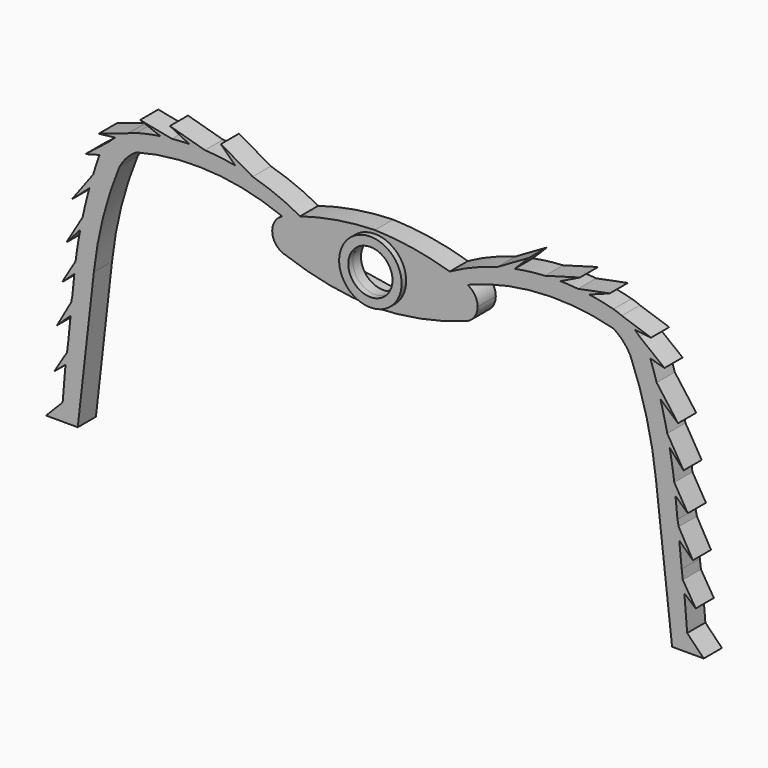
from build123d import *

# Parameters (mm, degrees)
PAD071_DEPTH       = 4
PAD069_DEPTH       = 4
POCKET003051_DEPTH = 2.2
PAD070_DEPTH       = 4
SKETCH116_R        = 3.9
POCKET003052_DEPTH = 10
SKETCH118_R        = 5.5
SKETCH118_R_2      = 3.891802
PAD072_DEPTH       = 1
SKETCH119_W        = 122.5
SKETCH119_H        = 2
POCKET003053_DEPTH = 5


with BuildPart() as central_leg_insect_add001:
    # Sketch117 → Pad071 (new body)
    with BuildSketch(Plane.XZ.offset(-43.7)):
        Polygon((-58.503296, -18.004301), (-53.997036, -18.004301), (-48.744877, 15.965196), (-44.5658, 27.943165), (-41.53833, 30.02603), (-31.626242, 31.40176), (-21.017805, 29.65671), (-18.990362, 30.401161), (-27.13097, 35.111233), (-22.936073, 30.916338), (-29.003351, 32.984856), (-36.116627, 34.99157), (-32.000511, 32.969288), (-34.972557, 32.969288), (-41.352551, 34.221657), (-37, 32.591213), (-43, 31.631081), (-48.636986, 29.73181), (-44, 30.22826), (-46, 29.721722), (-51, 25.793291), (-47.464714, 26.759798), (-49.314915, 23.492535), (-53.390827, 18), (-50, 21), (-51, 16.646269), (-54.355499, 11), (-51.685394, 14), (-52.498241, 9), (-55.106018, 4.606695), (-52.495518, 7), (-53.502594, 2), (-56, -2.398534), (-53.492668, 0), (-54.22747, -6), (-56.500393, -9.69598), (-54.497387, -8), (-55, -14), (-58.503296, -17.601286), align=None)
    extrude(amount=-PAD071_DEPTH)


with BuildPart() as quarter_central_leg_servo_support001:
    # Sketch113 → Pad069 (new body)
    with BuildSketch(Plane(origin=(0, 47.7, 24.6), x_dir=(-1, 0, 0), z_dir=(0, 1, 0))):
        with BuildLine():
            ThreePointArc((15.732627, 3), (7.987175, 5.135172), (0, 6.004658))
            Line((0, 6.004658), (0, 4.275313))
            Line((0, 4.275313), (0, 0))
            Line((16.774147, 0), (0, 0))
            Line((18.088162, 0), (16.774147, 0))
            ThreePointArc((18.088162, 0), (17.428911, 1.907128), (15.732627, 3))
        make_face()
    extrude(amount=-PAD069_DEPTH)

    # Sketch114 → Pocket003051 (cut)
    with BuildSketch(Plane(origin=(0, 47.7, 24.6), x_dir=(-1, 0, 0), z_dir=(0, 1, 0))):
        with BuildLine():
            Line((0, 4.49111), (15.744728, 2.000001))
            ThreePointArc((17.134156, 0), (16.75271, 1.217632), (15.744728, 2.000001))
            Line((17.134156, 0), (0, 0))
            Line((0, 0), (0, 4.49111))
        make_face()
    extrude(amount=-POCKET003051_DEPTH, mode=Mode.SUBTRACT)


with BuildPart() as half_leg_insect001:
    # Part__Mirroring009: instance of quarter_central_leg_servo_support001
    add(quarter_central_leg_servo_support001.part.mirror(Plane(origin=(0, 0, 24.6), x_dir=(0, 1, 0), z_dir=(0, 0, 1))))

    # Fusion007042: union quarter_central_leg_servo_support001
    add(quarter_central_leg_servo_support001.part)

    # Sketch115 → Pad070 (new body)
    with BuildSketch(Plane(origin=(0, 47.7, 0), x_dir=(-1, 0, 0), z_dir=(0, 1, 0))):
        with BuildLine():
            Line((52.452988, -18.000002), (58.497849, -18.000002))
            Line((58.497849, -18.000002), (58.497849, -17.584217))
            ThreePointArc((54.988709, -14), (56.535613, -15.995425), (58.497849, -17.584217))
            Line((54.988709, -14), (52.759255, 8.35829))
            ThreePointArc((52.759255, 8.35829), (51.202034, 17.133916), (48.77817, 25.710712))
            ThreePointArc((48.77817, 25.710712), (46.1643, 29.690829), (42.000002, 32))
            ThreePointArc((42.000002, 32), (27.145674, 33.002324), (13.00001, 28.359486))
            Line((16, 27.29138), (13.00001, 28.359486))
            ThreePointArc((41.999998, 28.999997), (28.860359, 30.270585), (16, 27.29138))
            ThreePointArc((44.999996, 25.769916), (43.714535, 27.584213), (41.999998, 28.999997))
            ThreePointArc((49.501895, 8.000017), (47.87481, 17.043019), (44.999996, 25.769916))
            Line((52.452988, -18.000002), (49.501895, 8.000017))
        make_face()
    extrude(amount=-PAD070_DEPTH)

    # Fusion007043: union central_leg_insect_add001
    add(central_leg_insect_add001.part)


with BuildPart() as obj1:
    # Part__Mirroring010: instance of half_leg_insect001
    add(half_leg_insect001.part.mirror(Plane(origin=(0, 0, 0), x_dir=(0, -1, 0), z_dir=(1, 0, 0))))

    # Fusion007044: union half_leg_insect001
    add(half_leg_insect001.part)

    # Sketch116 → Pocket003052 (cut)
    with BuildSketch(Plane(origin=(0, 45.5, 0), x_dir=(-1, 0, 0), z_dir=(0, 1, 0))):
        with Locations((0, 24.473736)):
            Circle(SKETCH116_R)
    extrude(amount=-POCKET003052_DEPTH, mode=Mode.SUBTRACT)

    # Sketch118 → Pad072 (new body)
    with BuildSketch(Plane.XZ.offset(-43.7)):
        with Locations((0, 24.5)):
            Circle(SKETCH118_R)
        with Locations((0, 24.5)):
            Circle(SKETCH118_R_2, mode=Mode.SUBTRACT)
    extrude(amount=PAD072_DEPTH)

    # Sketch119 → Pocket003053 (cut)
    with BuildSketch(Plane(origin=(0, 47.7, 0), x_dir=(-1, 0, 0), z_dir=(0, 1, 0))):
        with Locations((1.75, -18)):
            Rectangle(SKETCH119_W, SKETCH119_H)
    extrude(amount=-POCKET003053_DEPTH, mode=Mode.SUBTRACT)


solid = obj1.part
